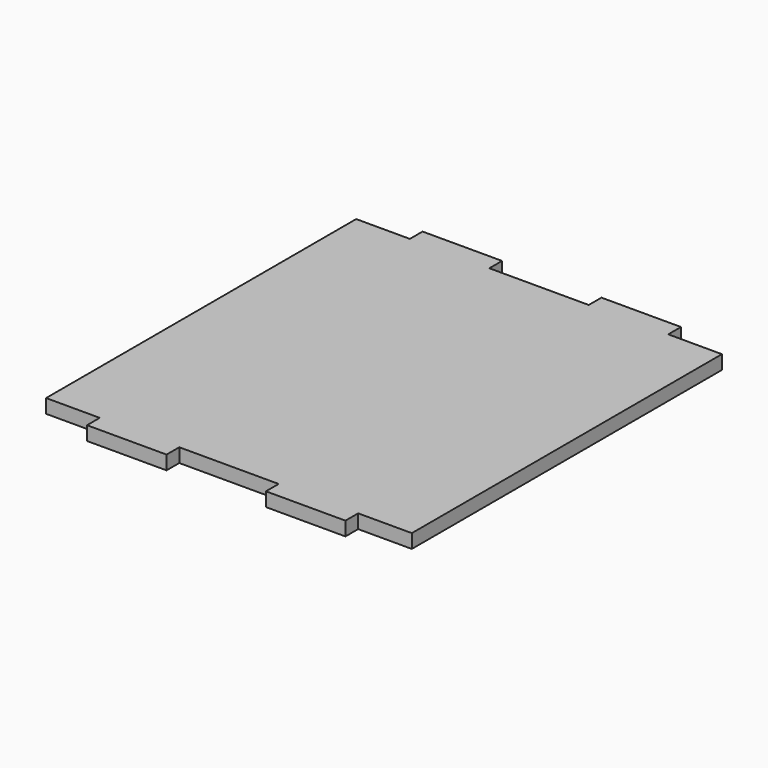
from build123d import *

# Parameters (mm, degrees)
F0_W     = 8
F0_H     = 1.6
F2_DEPTH = 1.4


with BuildPart() as f2:
    # F0 (on Top) → F2 (new body)
    with BuildSketch(Plane.XY):
        with Locations((-9, -20.3)):
            Rectangle(F0_W, F0_H)
        with Locations((-9, 20.3)):
            Rectangle(F0_W, F0_H)
        Polygon((-13, 19.5), (-18.4, 19.5), (-18.4, -19.5), (-13, -19.5), (-5, -19.5), (5, -19.5), (13, -19.5), (18.4, -19.5), (18.4, 19.5), (13, 19.5), (5, 19.5), (-5, 19.5), align=None)
        with Locations((9, 20.3)):
            Rectangle(F0_W, F0_H)
        with Locations((9, -20.3)):
            Rectangle(F0_W, F0_H)
    extrude(amount=F2_DEPTH)


solid = f2.part
